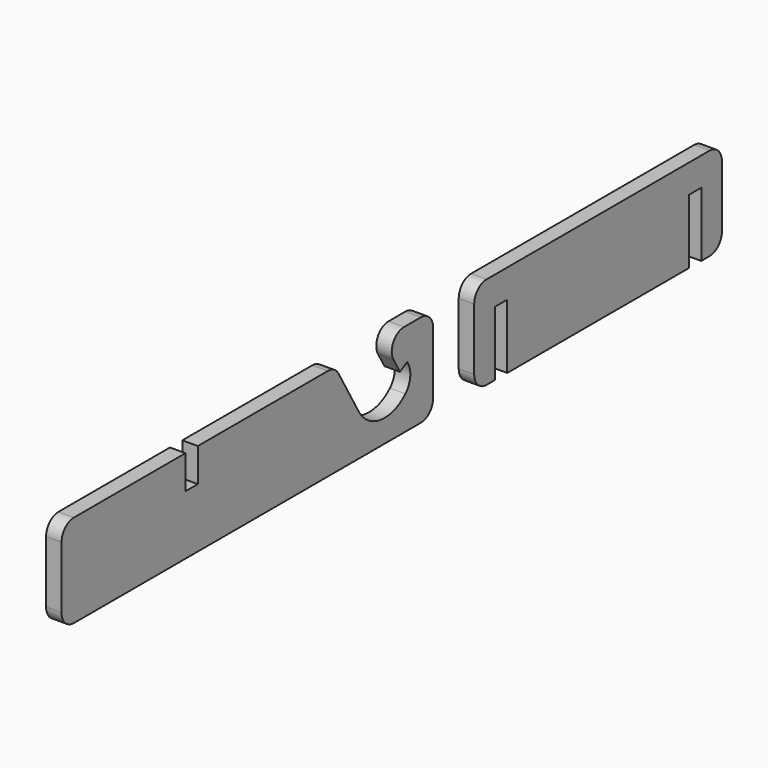
from build123d import *

# Parameters (mm, degrees)
F0_W     = 90
F0_H     = 18
F1_DEPTH = 3
F0_W_2   = 60
F3_DEPTH = 3.001
F4_R     = 3
F4_2_R   = 3
F5_W     = 3
F5_H     = 6.5
F5_H_2   = 12.5
F6_DEPTH = 3.001


with BuildPart() as f1:
    # F0 (on Right) → F1 (new body)
    with BuildSketch(Plane.YZ):
        with Locations((-45, 9)):
            Rectangle(F0_W, F0_H)
    extrude(amount=F1_DEPTH)

    # F2 (on face) → F3 (cut, through all)
    with BuildSketch(Plane.YZ.offset(3)):
        with BuildLine():
            Line((-18.9529946162, 29.6506350946), (-30.5, 29.6506350946))
            Line((-30.5, 29.6506350946), (-18, 8))
            ThreePointArc((-18, 8), (-12.736943817, 4.4659562139), (-6.7200863544, 6.4626164608))
            ThreePointArc((-6.7200863544, 6.4626164608), (-5.5592457723, 8.7765369135), (-6.0585018161, 11.316718427))
            Line((-6.0585018161, 11.316718427), (-6.3085018161, 11.7497311289))
            Line((-6.3085018161, 11.7497311289), (-8.0405526237, 10.7497311289))
            Line((-8.0405526237, 10.7497311289), (-18.9529946162, 29.6506350946))
        make_face()
    extrude(amount=-F3_DEPTH, mode=Mode.SUBTRACT)

    # F4
    f4_edges = [f1.edges().sort_by_distance(p)[0] for p in [
        (1.5, -12.226497, 18),
        (1.5, 0, 18),
        (1.5, -23.773503, 18),
        (1.5, 0, 0),
        (1.5, -90, 18),
        (1.5, -90, 0),
    ]]
    fillet(f4_edges, radius=F4_R)


with BuildPart() as f1b:
    # F0 (on Right) → F1, piece 2 (new body)
    with BuildSketch(Plane.YZ):
        with Locations((39.9446233362, 9)):
            Rectangle(F0_W_2, F0_H)
    extrude(amount=F1_DEPTH)

    # F4#2
    f4_2_edges = [f1b.edges().sort_by_distance(p)[0] for p in [
        (1.5, 69.944623, 18),
        (1.5, 69.944623, 0),
        (1.5, 9.944623, 0),
        (1.5, 9.944623, 18),
    ]]
    fillet(f4_2_edges, radius=F4_2_R)


with BuildPart() as f6_tool:
    # F5 (on face) → F6 (new body, through all)
    with BuildSketch(Plane.YZ.offset(3)):
        with Locations((-58.5, 14.75)):
            Rectangle(F5_W, F5_H)
        with Locations((16.4446233362, 6.25)):
            Rectangle(F5_W, F5_H_2)
        with Locations((63.4446233362, 6.25)):
            Rectangle(F5_W, F5_H_2)
    extrude(amount=-F6_DEPTH)


with BuildPart() as f1_1:
    add(f1.part)

    # F6: cut by f6_tool
    add(f6_tool.part, mode=Mode.SUBTRACT)


with BuildPart() as f1b_1:
    add(f1b.part)

    # F6: cut by f6_tool
    add(f6_tool.part, mode=Mode.SUBTRACT)


solid = Compound([f1_1.part, f1b_1.part])
